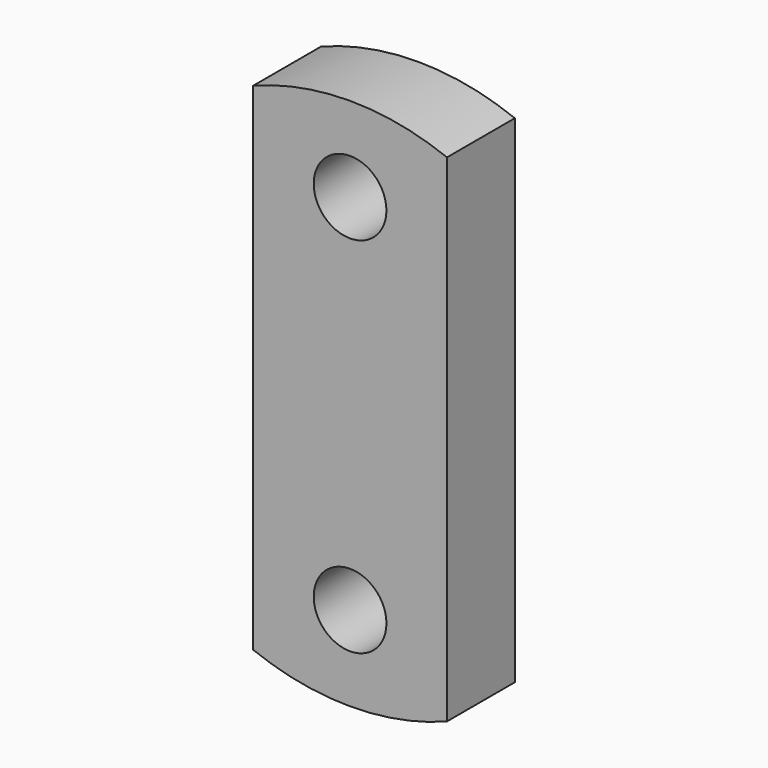
from build123d import *

# Parameters (mm, degrees)
SKETCH001_R  = 110
PAD001_DEPTH = 20
SKETCH_W     = 80
SKETCH_H     = 250
PAD_DEPTH    = 17.5
SKETCH002_R  = 15
POCKET_DEPTH = 35.001


with BuildPart() as pad001:
    # Sketch001 → Pad001 (new body, symmetric)
    with BuildSketch(Plane.XZ):
        Circle(SKETCH001_R)
    extrude(amount=PAD001_DEPTH, both=True)


with BuildPart() as pocket:
    # Sketch → Pad (new body, symmetric)
    with BuildSketch(Plane.XZ):
        Rectangle(SKETCH_W, SKETCH_H)
    extrude(amount=PAD_DEPTH, both=True)

    # Common: intersect Pad001
    add(pad001.part, mode=Mode.INTERSECT)

    # Sketch002 → Pocket (cut, through all)
    with BuildSketch(Plane.XZ.offset(17.5)):
        with Locations((0, 75)):
            Circle(SKETCH002_R)
        with Locations((0, -75)):
            Circle(SKETCH002_R)
    extrude(amount=-POCKET_DEPTH, mode=Mode.SUBTRACT)


solid = pocket.part
